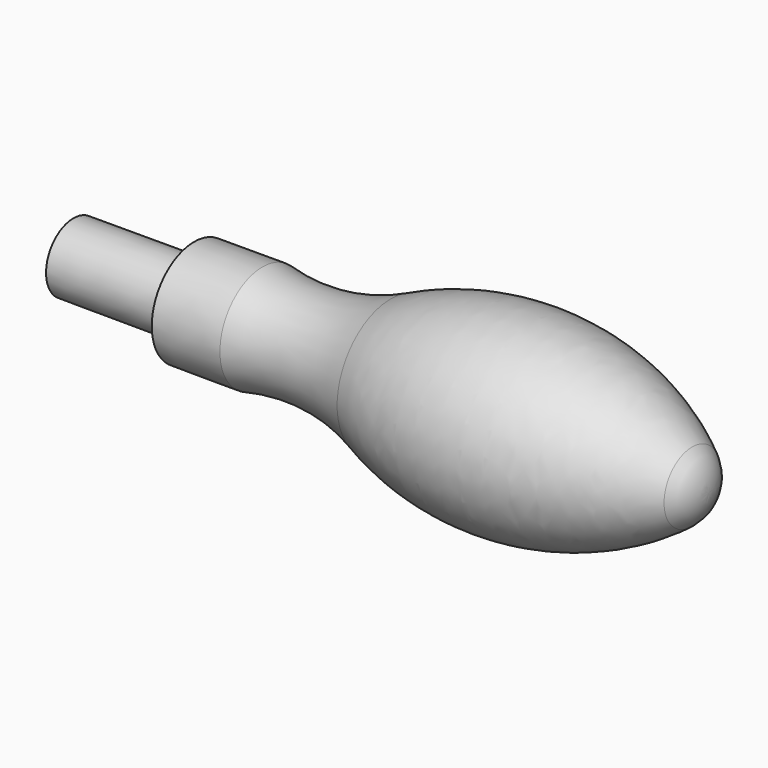
from build123d import *


with BuildPart() as f1:
    # F0 (on Top) → F1 (revolve)
    with BuildSketch(Plane.XY):
        Polygon((-83.9843564017, -5.64748e-05), (-60.9687128034, -0.0554485557), (-60.9687128034, 6.4999247004), (-83.9687128034, 6.4999247004), align=None)
        with BuildLine():
            Line((-60.9687128034, 6.4999247004), (-60.9687128034, -0.0554485557))
            Line((-60.9687128034, -0.0554485557), (36.9946977292, -0.2912185067))
            ThreePointArc((36.9946977292, -0.2912185067), (36.2283302826, 3.4280083613), (33.8333333333, 6.374863833))
            ThreePointArc((33.8333333333, 6.374863833), (6.0073925905, 17.4276634849), (-23.5358030051, 12.5648502696))
            ThreePointArc((-23.5358030051, 12.5648502696), (-35.5392671277, 9.2534628626), (-47.9687128034, 10))
            Line((-47.9687128034, 10), (-48.352700648, 10))
            Line((-48.352700648, 10), (-60.9687128034, 10))
            Line((-60.9687128034, 10), (-60.9687128034, 6.4999247004))
        make_face()
    revolve(axis=Axis((-23.4948293362, -0.1456374907, 0), (0.9999971039, -0.0024067074, 0)))


solid = f1.part
